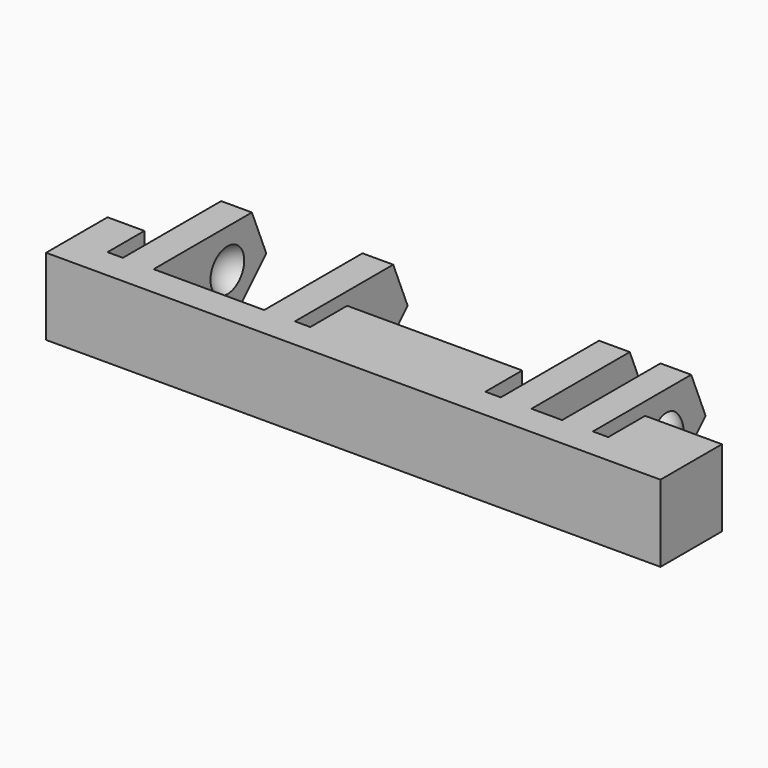
from build123d import *

# Parameters (mm, degrees)
BOX043_W               = 12
BOX043_H               = 44
BOX043_DEPTH           = 10
BOX045_W               = 4
BOX045_H               = 1
BOX045_DEPTH           = 7
BOX047_W               = 4
BOX047_H               = 1
BOX047_DEPTH           = 7
BOX041_W               = 4
BOX041_H               = 2
BOX041_DEPTH           = 7
BOX048_W               = 4
BOX048_H               = 1
BOX048_DEPTH           = 7
BOX044_W               = 4
BOX044_H               = 1
BOX044_DEPTH           = 7
BOX052_W               = 4
BOX052_H               = 7.2
BOX052_DEPTH           = 7
BOX050_W               = 13
BOX050_H               = 40
BOX050_DEPTH           = 10
BOX050_PITCH_ANGLE     = -45
BOX040_W               = 10
BOX040_H               = 2
BOX040_DEPTH           = 7
BOX042_W               = 10
BOX042_H               = 2
BOX042_DEPTH           = 7
BOX049_W               = 10
BOX049_H               = 2
BOX049_DEPTH           = 7
BOX051_W               = 10
BOX051_H               = 2
BOX051_DEPTH           = 7
BOX046_W               = 5
BOX046_H               = 40
BOX046_DEPTH           = 7
CHAMFER004_SIZE        = 4
CUT016_PLACEMENT_ANGLE = 180
CUT015_PLACEMENT_ANGLE = -90


with BuildPart() as cube043:
    # Box043 → Box043 (new body)
    with BuildSketch(Plane(origin=(-11, -2, -12), x_dir=(1, 0, 0), z_dir=(0, 0, 1))):
        with Locations((6, 22)):
            Rectangle(BOX043_W, BOX043_H)
    extrude(amount=BOX043_DEPTH)


with BuildPart() as cube045:
    # Box045 → Box045 (new body)
    with BuildSketch(Plane(origin=(-1, 12, 0), x_dir=(1, 0, 0), z_dir=(0, 0, 1))):
        with Locations((2, 0.5)):
            Rectangle(BOX045_W, BOX045_H)
    extrude(amount=BOX045_DEPTH)


with BuildPart() as cube047:
    # Box047 → Box047 (new body)
    with BuildSketch(Plane(origin=(-1, 36.6, 0), x_dir=(1, 0, 0), z_dir=(0, 0, 1))):
        with Locations((2, 0.5)):
            Rectangle(BOX047_W, BOX047_H)
    extrude(amount=BOX047_DEPTH)


with BuildPart() as cube041:
    # Box041 → Box041 (new body)
    with BuildSketch(Plane(origin=(-1, 8, 0), x_dir=(1, 0, 0), z_dir=(0, 0, 1))):
        with Locations((2, 1)):
            Rectangle(BOX041_W, BOX041_H)
    extrude(amount=BOX041_DEPTH)


with BuildPart() as cube048:
    # Box048 → Box048 (new body)
    with BuildSketch(Plane(origin=(-1, 24.4, 0), x_dir=(1, 0, 0), z_dir=(0, 0, 1))):
        with Locations((2, 0.5)):
            Rectangle(BOX048_W, BOX048_H)
    extrude(amount=BOX048_DEPTH)


with BuildPart() as cube044:
    # Box044 → Box044 (new body)
    with BuildSketch(Plane(origin=(-1, 5, 0), x_dir=(1, 0, 0), z_dir=(0, 0, 1))):
        with Locations((2, 0.5)):
            Rectangle(BOX044_W, BOX044_H)
    extrude(amount=BOX044_DEPTH)


with BuildPart() as fusion014:
    # Box052 → Box052 (new body)
    with BuildSketch(Plane(origin=(-1, 27.4, 0), x_dir=(1, 0, 0), z_dir=(0, 0, 1))):
        with Locations((2, 3.6)):
            Rectangle(BOX052_W, BOX052_H)
    extrude(amount=BOX052_DEPTH)

    # Fusion014: union Cube045, Cube047, Cube041, Cube048, Cube044
    add(cube045.part)
    add(cube047.part)
    add(cube041.part)
    add(cube048.part)
    add(cube044.part)


with BuildPart() as sphere021:
    # Sphere021 → Sphere021 (revolve)
    with BuildSketch(Plane(origin=(-3, 28, 2.5), x_dir=(1, 0, 0), z_dir=(0, -1, 0))):
        with BuildLine():
            ThreePointArc((0, -1.5), (1.5, 0), (0, 1.5))
            Line((0, 1.5), (0, -1.5))
        make_face()
    revolve(axis=Axis((-3, 28, 2.5), (0, 0, 1)))


with BuildPart() as fusion016:
    # Sphere023 → Sphere023 (revolve)
    with BuildSketch(Plane(origin=(-3, 34, 2.5), x_dir=(1, 0, 0), z_dir=(0, -1, 0))):
        with BuildLine():
            ThreePointArc((0, -1.5), (1.5, 0), (0, 1.5))
            Line((0, 1.5), (0, -1.5))
        make_face()
    revolve(axis=Axis((-3, 34, 2.5), (0, 0, 1)))

    # Fusion016: union Sphere021
    add(sphere021.part)


with BuildPart() as sphere020:
    # Sphere020 → Sphere020 (revolve)
    with BuildSketch(Plane(origin=(-3, 11.5, 2.5), x_dir=(1, 0, 0), z_dir=(0, -1, 0))):
        with BuildLine():
            ThreePointArc((0, -1.25), (1.25, 0), (0, 1.25))
            Line((0, 1.25), (0, -1.25))
        make_face()
    revolve(axis=Axis((-3, 11.5, 2.5), (0, 0, 1)))


with BuildPart() as cube050:
    # Box050 → Box050 (new body)
    with BuildSketch(Plane.XY):
        with Locations((6.5, 20)):
            Rectangle(BOX050_W, BOX050_H)
    extrude(amount=BOX050_DEPTH)


with BuildPart() as cube050_1:
    # Box050 pitch: moved
    add(cube050.part.rotate(Axis((0, 0, 0), (0, 1, 0)), BOX050_PITCH_ANGLE))


with BuildPart() as cube050_2:
    # Box050 placement: moved
    add(cube050_1.part.moved(Location((-10.19, 0, -1.19))))


with BuildPart() as cube040:
    # Box040 → Box040 (new body)
    with BuildSketch(Plane(origin=(-10, 6, 0), x_dir=(1, 0, 0), z_dir=(0, 0, 1))):
        with Locations((5, 1)):
            Rectangle(BOX040_W, BOX040_H)
    extrude(amount=BOX040_DEPTH)


with BuildPart() as cube042:
    # Box042 → Box042 (new body)
    with BuildSketch(Plane(origin=(-10, 10, 0), x_dir=(1, 0, 0), z_dir=(0, 0, 1))):
        with Locations((5, 1)):
            Rectangle(BOX042_W, BOX042_H)
    extrude(amount=BOX042_DEPTH)


with BuildPart() as cube049:
    # Box049 → Box049 (new body)
    with BuildSketch(Plane(origin=(-10, 25.4, 0), x_dir=(1, 0, 0), z_dir=(0, 0, 1))):
        with Locations((5, 1)):
            Rectangle(BOX049_W, BOX049_H)
    extrude(amount=BOX049_DEPTH)


with BuildPart() as cube051:
    # Box051 → Box051 (new body)
    with BuildSketch(Plane(origin=(-10, 34.6, 0), x_dir=(1, 0, 0), z_dir=(0, 0, 1))):
        with Locations((5, 1)):
            Rectangle(BOX051_W, BOX051_H)
    extrude(amount=BOX051_DEPTH)


with BuildPart() as cut013:
    # Box046 → Box046 (new body)
    with BuildSketch(Plane.XY):
        with Locations((2.5, 20)):
            Rectangle(BOX046_W, BOX046_H)
    extrude(amount=BOX046_DEPTH)

    # Fusion015: union Cube040, Cube042, Cube049, Cube051
    add(cube040.part)
    add(cube042.part)
    add(cube049.part)
    add(cube051.part)

    # Cut013: cut Cube050
    add(cube050_2.part, mode=Mode.SUBTRACT)


with BuildPart() as cut015:
    # Sphere022 → Sphere022 (revolve)
    with BuildSketch(Plane(origin=(-3, 6.5, 2.5), x_dir=(1, 0, 0), z_dir=(0, -1, 0))):
        with BuildLine():
            ThreePointArc((0, -1.25), (1.25, 0), (0, 1.25))
            Line((0, 1.25), (0, -1.25))
        make_face()
    revolve(axis=Axis((-3, 6.5, 2.5), (0, 0, 1)))

    # Fusion013: union Sphere020, Cut013
    add(sphere020.part)
    add(cut013.part)

    # Cut014: cut Fusion016
    add(fusion016.part, mode=Mode.SUBTRACT)

    # Chamfer004
    chamfer004_edges = [cut015.edges().sort_by_distance(p)[0] for p in [
        (-9, 7, 0),
        (-9, 11, 0),
        (-9, 35.6, 0),
        (-9, 26.4, 0),
    ]]
    chamfer(chamfer004_edges, length=CHAMFER004_SIZE)

    # Cut016: cut Fusion014
    add(fusion014.part, mode=Mode.SUBTRACT)


with BuildPart() as cut015_1:
    # Cut016 placement: moved
    add(cut015.part.moved(Location((-5, 40, 3))).rotate(Axis((-5, 40, 3), (1, 0, 0)), CUT016_PLACEMENT_ANGLE))

    # Cut015: cut Cube043
    add(cube043.part, mode=Mode.SUBTRACT)


with BuildPart() as cut015_2:
    # Cut015 placement: moved
    add(cut015_1.part.moved(Location((0, 40, 0))).rotate(Axis((0, 40, 0), (0, 0, 1)), CUT015_PLACEMENT_ANGLE))


solid = cut015_2.part
